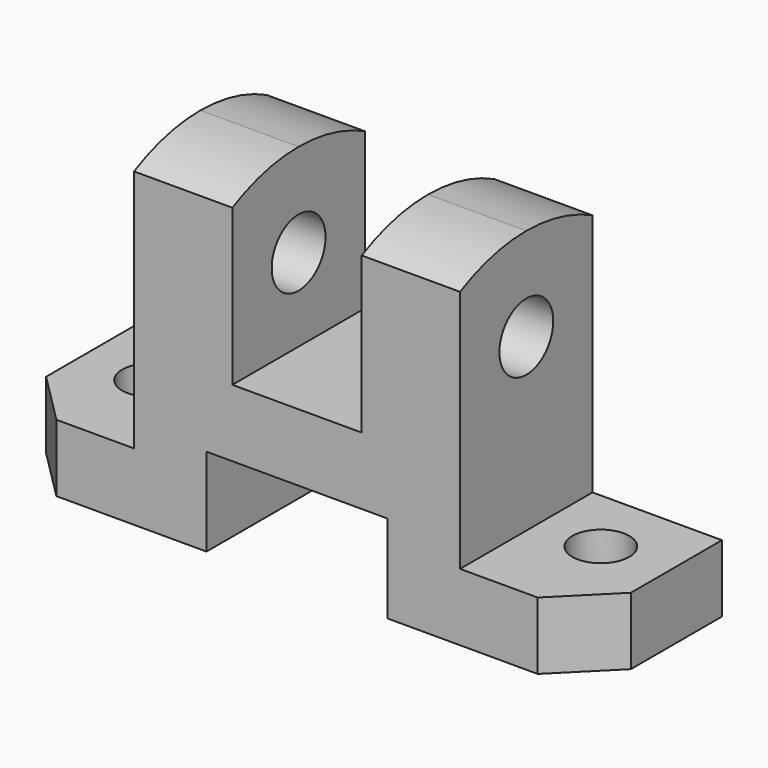
from build123d import *

# Parameters (mm, degrees)
F1_DEPTH  = 16
F2_R      = 6.5
F3_DEPTH  = 88.001
F4_DEPTH  = 88.001
F5_R      = 5.5
F6_DEPTH  = 13.001
F7_DEPTH  = 13.001
F8_R      = 5.5
F9_DEPTH  = 13.001
F10_DEPTH = 13.001


with BuildPart() as f1:
    # F0 (on Front) → F1 (new body, symmetric)
    with BuildSketch(Plane.XZ):
        Polygon((0, 13), (0, 0), (39, 0), (39, 17), (74, 17), (74, 0), (113, 0), (113, 13), (88, 13), (88, 64), (69, 64), (69, 30), (44, 30), (44, 64), (25, 64), (25, 13), align=None)
    extrude(amount=F1_DEPTH, both=True)

    # F2 (on face) → F3 (cut, through all)
    with BuildSketch(Plane.YZ.offset(88)):
        with Locations((0, 46)):
            Circle(F2_R)
    extrude(amount=-F3_DEPTH, mode=Mode.SUBTRACT)

    # F2 (on face) → F4 (cut, through all)
    with BuildSketch(Plane.YZ.offset(88)):
        with BuildLine():
            Line((16, 64), (0, 64))
            ThreePointArc((0, 64), (8.230833, 63.018427), (16, 60.128765))
            Line((16, 60.128765), (16, 64))
        make_face()
        with BuildLine():
            Line((0, 64), (-16, 64))
            Line((-16, 64), (-16, 60.128765))
            ThreePointArc((-16, 60.128765), (-8.230833, 63.018427), (0, 64))
        make_face()
    extrude(amount=-F4_DEPTH, mode=Mode.SUBTRACT)

    # F5 (on face) → F6 (cut, through all)
    with BuildSketch(Plane.XY.offset(13)):
        with Locations((100, 3)):
            Circle(F5_R)
    extrude(amount=-F6_DEPTH, mode=Mode.SUBTRACT)

    # F5 (on face) → F7 (cut, through all)
    with BuildSketch(Plane.XY.offset(13)):
        Polygon((113, -6), (103, -16), (113, -16), align=None)
    extrude(amount=-F7_DEPTH, mode=Mode.SUBTRACT)

    # F8 (on face) → F9 (cut, through all)
    with BuildSketch(Plane.XY.offset(13)):
        with Locations((13, 3)):
            Circle(F8_R)
    extrude(amount=-F9_DEPTH, mode=Mode.SUBTRACT)

    # F8 (on face) → F10 (cut, through all)
    with BuildSketch(Plane.XY.offset(13)):
        Polygon((0, -6), (0, -16), (10, -16), align=None)
    extrude(amount=-F10_DEPTH, mode=Mode.SUBTRACT)


solid = f1.part
